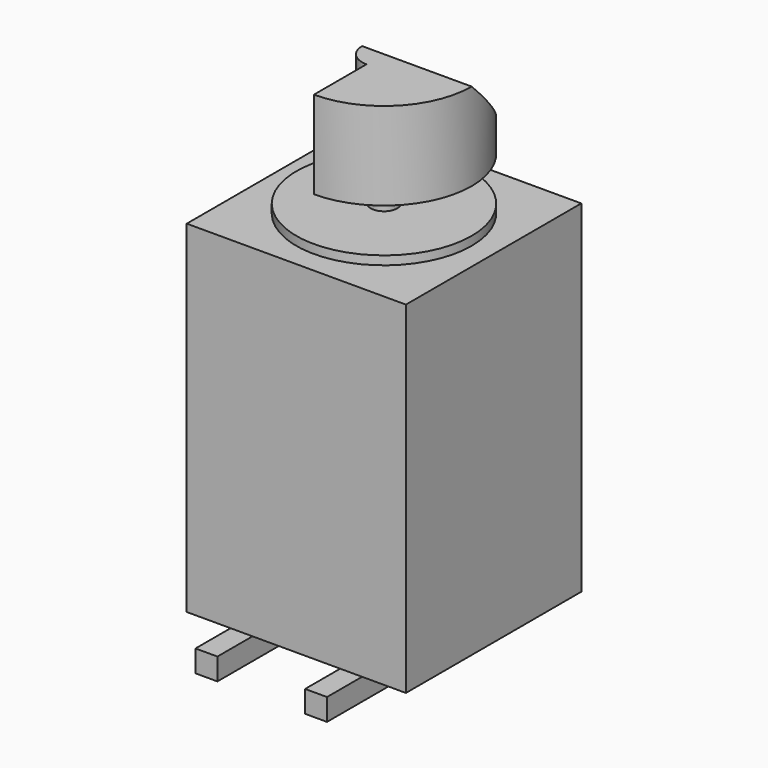
from build123d import *

# Parameters (mm, degrees)
BOX003_W          = 0.5
BOX003_H          = 5
BOX003_DEPTH      = 0.5
BOX001_W          = 5
BOX001_H          = 5
BOX001_DEPTH      = 7.8
BOX002_W          = 0.5
BOX002_H          = 5
BOX002_DEPTH      = 0.5
BOX_W             = 4
BOX_H             = 3
BOX_DEPTH         = 2
BOX_ROLL_ANGLE    = -45
CYLINDER001_R     = 0.3
CYLINDER001_DEPTH = 11
CYLINDER_R        = 2
CYLINDER_DEPTH    = 8
CYLINDER002_R     = 0.5
CYLINDER002_DEPTH = 2
PAD_DEPTH         = 2


with BuildPart() as obj1:
    # Box003 → Box003 (new body)
    with BuildSketch(Plane(origin=(1, -3.5, -0.5), x_dir=(1, 0, 0), z_dir=(0, 0, 1))):
        with Locations((0.25, 2.5)):
            Rectangle(BOX003_W, BOX003_H)
    extrude(amount=BOX003_DEPTH)


with BuildPart() as obj2:
    # Box001 → Box001 (new body)
    with BuildSketch(Plane(origin=(-2.5, -2.5, 0), x_dir=(1, 0, 0), z_dir=(0, 0, 1))):
        with Locations((2.5, 2.5)):
            Rectangle(BOX001_W, BOX001_H)
    extrude(amount=BOX001_DEPTH)


with BuildPart() as obj3:
    # Box002 → Box002 (new body)
    with BuildSketch(Plane(origin=(-1.5, -3.5, -0.5), x_dir=(1, 0, 0), z_dir=(0, 0, 1))):
        with Locations((0.25, 2.5)):
            Rectangle(BOX002_W, BOX002_H)
    extrude(amount=BOX002_DEPTH)


with BuildPart() as obj4:
    # Box → Box (new body)
    with BuildSketch(Plane.XY):
        with Locations((2, 1.5)):
            Rectangle(BOX_W, BOX_H)
    extrude(amount=BOX_DEPTH)


with BuildPart() as obj4_1:
    # Box roll: moved
    add(obj4.part.rotate(Axis((0, 0, 0), (1, 0, 0)), BOX_ROLL_ANGLE))


with BuildPart() as obj4_2:
    # Box placement: moved
    add(obj4_1.part.moved(Location((-1, 0, 11))))


with BuildPart() as achse:
    # Cylinder001 → Cylinder001 (new body)
    with BuildSketch(Plane.XY):
        Circle(CYLINDER001_R)
    extrude(amount=CYLINDER001_DEPTH)


with BuildPart() as motor:
    # Cylinder → Cylinder (new body)
    with BuildSketch(Plane.XY):
        Circle(CYLINDER_R)
    extrude(amount=CYLINDER_DEPTH)


with BuildPart() as zylinder:
    # Cylinder002 → Cylinder002 (new body)
    with BuildSketch(Plane.XY.offset(9)):
        Circle(CYLINDER002_R)
    extrude(amount=CYLINDER002_DEPTH)


with BuildPart() as motor001:
    # Sketch → Pad (new body)
    with BuildSketch(Plane.XY.offset(9)):
        with BuildLine():
            Line((0, 2), (0, -2))
            ThreePointArc((0, -2), (2, 0), (0, 2))
        make_face()
    extrude(amount=PAD_DEPTH)

    # Fusion: union Achse, Motor, Zylinder
    add(achse.part)
    add(motor.part)
    add(zylinder.part)

    # Cut: cut obj4
    add(obj4_2.part, mode=Mode.SUBTRACT)

    # Fusion001: union obj1, obj2, obj3
    add(obj1.part)
    add(obj2.part)
    add(obj3.part)


solid = motor001.part
